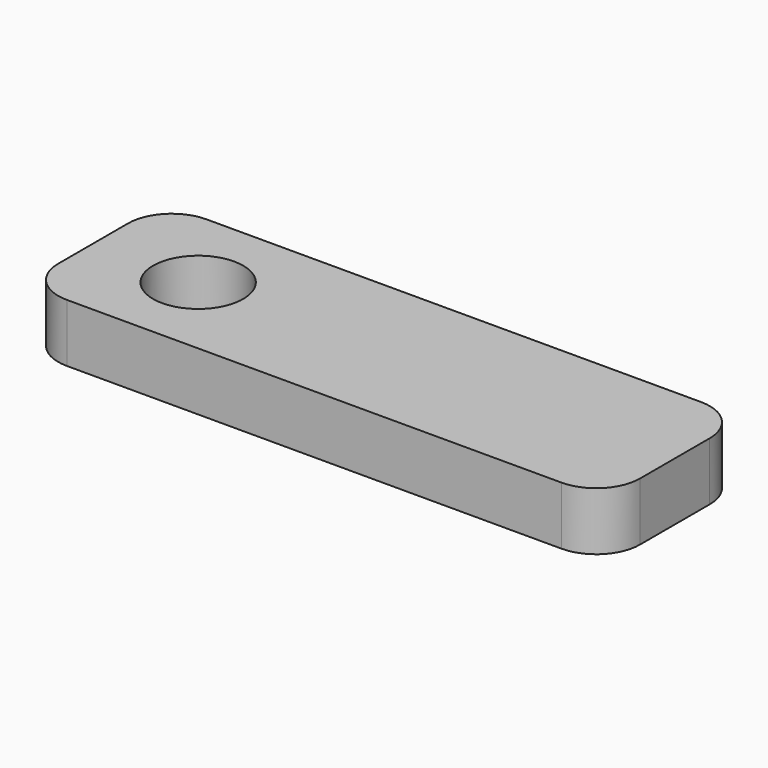
from build123d import *

# Parameters (mm, degrees)
F2_DEPTH = 0.2
F0_W     = 40
F0_H     = 12
F4_DEPTH = 4
F5_R     = 3
F7_D     = 6.2
F3_R     = 3.1
F8_DEPTH = 0.6


with BuildPart() as f2:
    # F1 (on Top) → F2 (new body)
    with BuildSketch(Plane.XY):
        with BuildLine():
            ThreePointArc((0, -4.1), (2.899138, -2.899138), (4.1, 0))
            ThreePointArc((4.1, 0), (2.899138, 2.899138), (0, 4.1))
            ThreePointArc((0, 4.1), (-4.1, 0), (0, -4.1))
        make_face()
        with BuildLine():
            ThreePointArc((0, 4.1), (2.899138, 2.899138), (4.1, 0))
            ThreePointArc((4.1, 0), (2.899138, -2.899138), (0, -4.1))
            Line((0, -4.1), (25, -4.1))
            ThreePointArc((25, -4.1), (20.9, 0), (25, 4.1))
            Line((25, 4.1), (0, 4.1))
        make_face()
        with BuildLine():
            ThreePointArc((29.1, 0), (27.899138, 2.899138), (25, 4.1))
            ThreePointArc((25, 4.1), (20.9, 0), (25, -4.1))
            ThreePointArc((25, -4.1), (27.899138, -2.899138), (29.1, 0))
        make_face()
    extrude(amount=-F2_DEPTH)

    # F0 (on Top) → F4 (join)
    with BuildSketch(Plane.XY):
        with Locations((12.779413, 0)):
            Rectangle(F0_W, F0_H)
    extrude(amount=F4_DEPTH)

    # F5
    f5_edges = [f2.edges().sort_by_distance(p)[0] for p in [
        (32.779413, -6, 2),
        (32.779413, 6, 2),
        (-7.220587, -6, 2),
        (-7.220587, 6, 2),
    ]]
    fillet(f5_edges, radius=F5_R)

    # F7 (through all)
    with Locations(Plane.XY.offset(4)):
        with Locations((0, 0)):
            Hole(F7_D / 2)

    # F3 (on Top) → F8 (join)
    with BuildSketch(Plane.XY):
        with Locations((25, 0)):
            Circle(F3_R)
    extrude(amount=-F8_DEPTH)


solid = f2.part
